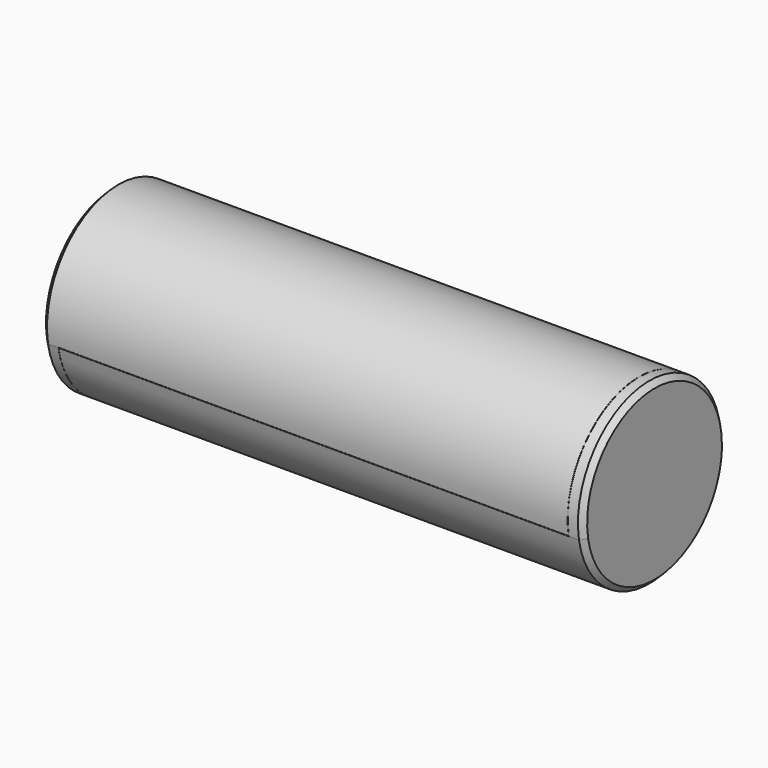
from build123d import *

# Parameters (mm, degrees)
F1_DEPTH  = 99.97
F2_DEPTH  = 3
F3_START  = 0.03
F3_DEPTH  = 99.97
F4_START  = 100
F4_DEPTH  = 3
F5_SIZE   = 1
F5_2_SIZE = 1
F6_R      = 0.5
F6_2_R    = 0.5


with BuildPart() as f1:
    # F0 (on Right) → F1 (new body)
    with BuildSketch(Plane.YZ):
        with BuildLine():
            ThreePointArc((17.2495652119, -2.95), (17.4372789048, -1.4803055076), (17.5, 0))
            ThreePointArc((17.5, 0), (-1.4803055076, 17.4372789048), (-17.2495652119, -2.95))
            Line((-17.2495652119, -2.95), (-14.5799998846, -2.95))
            Line((-14.5799998846, -2.95), (-14.5799998846, -1.6099997692))
            Line((-14.5799998846, -1.6099997692), (-16.0799998846, -1.6099997692))
            Line((-16.0799998846, -1.6099997692), (-16.0799998846, 0.05))
            Line((-16.0799998846, 0.05), (-12.9999038458, 0.05))
            ThreePointArc((-12.9999038458, 0.05), (0, 13), (12.9999038458, 0.05))
            Line((12.9999038458, 0.05), (16.0799998846, 0.05))
            Line((16.0799998846, 0.05), (16.0799998846, -1.6099997692))
            Line((16.0799998846, -1.6099997692), (14.5799998846, -1.6099997692))
            Line((14.5799998846, -1.6099997692), (14.5799998846, -2.95))
            Line((14.5799998846, -2.95), (17.2495652119, -2.95))
        make_face()
    extrude(amount=F1_DEPTH)

    # F0 (on Right) → F2 (join)
    with BuildSketch(Plane.YZ):
        with BuildLine():
            ThreePointArc((17.2495652119, -2.95), (17.4372789048, -1.4803055076), (17.5, 0))
            ThreePointArc((17.5, 0), (-1.4803055076, 17.4372789048), (-17.2495652119, -2.95))
            Line((-17.2495652119, -2.95), (-14.5799998846, -2.95))
            Line((-14.5799998846, -2.95), (-14.5799998846, -1.6099997692))
            Line((-14.5799998846, -1.6099997692), (-16.0799998846, -1.6099997692))
            Line((-16.0799998846, -1.6099997692), (-16.0799998846, 0.05))
            Line((-16.0799998846, 0.05), (-12.9999038458, 0.05))
            ThreePointArc((-12.9999038458, 0.05), (0, 13), (12.9999038458, 0.05))
            Line((12.9999038458, 0.05), (16.0799998846, 0.05))
            Line((16.0799998846, 0.05), (16.0799998846, -1.6099997692))
            Line((16.0799998846, -1.6099997692), (14.5799998846, -1.6099997692))
            Line((14.5799998846, -1.6099997692), (14.5799998846, -2.95))
            Line((14.5799998846, -2.95), (17.2495652119, -2.95))
        make_face()
        with BuildLine():
            Line((-14.5799998846, -2.95), (-17.2495652119, -2.95))
            ThreePointArc((-17.2495652119, -2.95), (-17.2452705517, -2.9750031261), (-17.2409396496, -3))
            Line((-17.2409396496, -3), (-14.5299998846, -3))
            Line((-14.5299998846, -3), (-14.5299998846, -1.5599997692))
            Line((-14.5299998846, -1.5599997692), (-16.0299998846, -1.5599997692))
            Line((-16.0299998846, -1.5599997692), (-16.0299998846, 0))
            Line((-16.0299998846, 0), (-13, 0))
            ThreePointArc((-13, 0), (-12.9999759614, 0.0250000462), (-12.9999038458, 0.05))
            Line((-12.9999038458, 0.05), (-16.0799998846, 0.05))
            Line((-16.0799998846, 0.05), (-16.0799998846, -1.6099997692))
            Line((-16.0799998846, -1.6099997692), (-14.5799998846, -1.6099997692))
            Line((-14.5799998846, -1.6099997692), (-14.5799998846, -2.95))
        make_face()
        with BuildLine():
            ThreePointArc((17.2409396496, -3), (17.2452705517, -2.9750031261), (17.2495652119, -2.95))
            Line((17.2495652119, -2.95), (14.5799998846, -2.95))
            Line((14.5799998846, -2.95), (14.5799998846, -1.6099997692))
            Line((14.5799998846, -1.6099997692), (16.0799998846, -1.6099997692))
            Line((16.0799998846, -1.6099997692), (16.0799998846, 0.05))
            Line((16.0799998846, 0.05), (12.9999038458, 0.05))
            ThreePointArc((12.9999038458, 0.05), (12.9999759614, 0.0250000462), (13, 0))
            Line((13, 0), (16.0299998846, 0))
            Line((16.0299998846, 0), (16.0299998846, -1.5599997692))
            Line((16.0299998846, -1.5599997692), (14.5299998846, -1.5599997692))
            Line((14.5299998846, -1.5599997692), (14.5299998846, -3))
            Line((14.5299998846, -3), (17.2409396496, -3))
        make_face()
        with BuildLine():
            Line((-14.5299998846, -3), (-17.2409396496, -3))
            ThreePointArc((-17.2409396496, -3), (0, -17.5), (17.2409396496, -3))
            Line((17.2409396496, -3), (14.5299998846, -3))
            Line((14.5299998846, -3), (14.5299998846, -1.5599997692))
            Line((14.5299998846, -1.5599997692), (16.0299998846, -1.5599997692))
            Line((16.0299998846, -1.5599997692), (16.0299998846, 0))
            Line((16.0299998846, 0), (13, 0))
            Line((13, 0), (13, -3))
            Line((13, -3), (-13, -3))
            Line((-13, -3), (-13, 0))
            Line((-13, 0), (-16.0299998846, 0))
            Line((-16.0299998846, 0), (-16.0299998846, -1.5599997692))
            Line((-16.0299998846, -1.5599997692), (-14.5299998846, -1.5599997692))
            Line((-14.5299998846, -1.5599997692), (-14.5299998846, -3))
        make_face()
        with BuildLine():
            ThreePointArc((12.9999038458, 0.05), (0, 13), (-12.9999038458, 0.05))
            Line((-12.9999038458, 0.05), (12.9999038458, 0.05))
        make_face()
        with BuildLine():
            Line((12.9999038458, 0.05), (-12.9999038458, 0.05))
            ThreePointArc((-12.9999038458, 0.05), (-12.9999759614, 0.0250000462), (-13, 0))
            Line((-13, 0), (-13, -3))
            Line((-13, -3), (13, -3))
            Line((13, -3), (13, 0))
            ThreePointArc((13, 0), (12.9999759614, 0.0250000462), (12.9999038458, 0.05))
        make_face()
    extrude(amount=-F2_DEPTH)

    # F5
    f5_edges = [f1.edges().sort_by_distance(p)[0] for p in [
        (-3, 17.24094, 3),
    ]]
    chamfer(f5_edges, length=F5_SIZE)

    # F6#2
    f6_2_edges = [f1.edges().sort_by_distance(p)[0] for p in [
        (49.985, 16.08, 0.05),
        (49.985, 16.08, -1.61),
        (49.985, 14.58, -1.61),
        (49.985, 14.58, -2.95),
        (49.985, -14.58, -1.61),
        (49.985, -14.58, -2.95),
        (49.985, -16.08, -1.61),
        (49.985, -16.08, 0.05),
        (49.985, -12.999904, 0.05),
        (49.985, 12.999904, 0.05),
    ]]
    fillet(f6_2_edges, radius=F6_2_R)


with BuildPart() as f3:
    # F0 (on Right) → F3 (new body)
    with BuildSketch(Plane.YZ.offset(F3_START)):
        with BuildLine():
            Line((-14.5299998846, -3), (-17.2409396496, -3))
            ThreePointArc((-17.2409396496, -3), (0, -17.5), (17.2409396496, -3))
            Line((17.2409396496, -3), (14.5299998846, -3))
            Line((14.5299998846, -3), (14.5299998846, -1.5599997692))
            Line((14.5299998846, -1.5599997692), (16.0299998846, -1.5599997692))
            Line((16.0299998846, -1.5599997692), (16.0299998846, 0))
            Line((16.0299998846, 0), (13, 0))
            Line((13, 0), (13, -3))
            Line((13, -3), (-13, -3))
            Line((-13, -3), (-13, 0))
            Line((-13, 0), (-16.0299998846, 0))
            Line((-16.0299998846, 0), (-16.0299998846, -1.5599997692))
            Line((-16.0299998846, -1.5599997692), (-14.5299998846, -1.5599997692))
            Line((-14.5299998846, -1.5599997692), (-14.5299998846, -3))
        make_face()
    extrude(amount=F3_DEPTH)

    # F0 (on Right) → F4 (join)
    with BuildSketch(Plane.YZ.offset(F4_START)):
        with BuildLine():
            ThreePointArc((17.2495652119, -2.95), (17.4372789048, -1.4803055076), (17.5, 0))
            ThreePointArc((17.5, 0), (-1.4803055076, 17.4372789048), (-17.2495652119, -2.95))
            Line((-17.2495652119, -2.95), (-14.5799998846, -2.95))
            Line((-14.5799998846, -2.95), (-14.5799998846, -1.6099997692))
            Line((-14.5799998846, -1.6099997692), (-16.0799998846, -1.6099997692))
            Line((-16.0799998846, -1.6099997692), (-16.0799998846, 0.05))
            Line((-16.0799998846, 0.05), (-12.9999038458, 0.05))
            ThreePointArc((-12.9999038458, 0.05), (0, 13), (12.9999038458, 0.05))
            Line((12.9999038458, 0.05), (16.0799998846, 0.05))
            Line((16.0799998846, 0.05), (16.0799998846, -1.6099997692))
            Line((16.0799998846, -1.6099997692), (14.5799998846, -1.6099997692))
            Line((14.5799998846, -1.6099997692), (14.5799998846, -2.95))
            Line((14.5799998846, -2.95), (17.2495652119, -2.95))
        make_face()
        with BuildLine():
            Line((-14.5799998846, -2.95), (-17.2495652119, -2.95))
            ThreePointArc((-17.2495652119, -2.95), (-17.2452705517, -2.9750031261), (-17.2409396496, -3))
            Line((-17.2409396496, -3), (-14.5299998846, -3))
            Line((-14.5299998846, -3), (-14.5299998846, -1.5599997692))
            Line((-14.5299998846, -1.5599997692), (-16.0299998846, -1.5599997692))
            Line((-16.0299998846, -1.5599997692), (-16.0299998846, 0))
            Line((-16.0299998846, 0), (-13, 0))
            ThreePointArc((-13, 0), (-12.9999759614, 0.0250000462), (-12.9999038458, 0.05))
            Line((-12.9999038458, 0.05), (-16.0799998846, 0.05))
            Line((-16.0799998846, 0.05), (-16.0799998846, -1.6099997692))
            Line((-16.0799998846, -1.6099997692), (-14.5799998846, -1.6099997692))
            Line((-14.5799998846, -1.6099997692), (-14.5799998846, -2.95))
        make_face()
        with BuildLine():
            ThreePointArc((17.2409396496, -3), (17.2452705517, -2.9750031261), (17.2495652119, -2.95))
            Line((17.2495652119, -2.95), (14.5799998846, -2.95))
            Line((14.5799998846, -2.95), (14.5799998846, -1.6099997692))
            Line((14.5799998846, -1.6099997692), (16.0799998846, -1.6099997692))
            Line((16.0799998846, -1.6099997692), (16.0799998846, 0.05))
            Line((16.0799998846, 0.05), (12.9999038458, 0.05))
            ThreePointArc((12.9999038458, 0.05), (12.9999759614, 0.0250000462), (13, 0))
            Line((13, 0), (16.0299998846, 0))
            Line((16.0299998846, 0), (16.0299998846, -1.5599997692))
            Line((16.0299998846, -1.5599997692), (14.5299998846, -1.5599997692))
            Line((14.5299998846, -1.5599997692), (14.5299998846, -3))
            Line((14.5299998846, -3), (17.2409396496, -3))
        make_face()
        with BuildLine():
            Line((-14.5299998846, -3), (-17.2409396496, -3))
            ThreePointArc((-17.2409396496, -3), (0, -17.5), (17.2409396496, -3))
            Line((17.2409396496, -3), (14.5299998846, -3))
            Line((14.5299998846, -3), (14.5299998846, -1.5599997692))
            Line((14.5299998846, -1.5599997692), (16.0299998846, -1.5599997692))
            Line((16.0299998846, -1.5599997692), (16.0299998846, 0))
            Line((16.0299998846, 0), (13, 0))
            Line((13, 0), (13, -3))
            Line((13, -3), (-13, -3))
            Line((-13, -3), (-13, 0))
            Line((-13, 0), (-16.0299998846, 0))
            Line((-16.0299998846, 0), (-16.0299998846, -1.5599997692))
            Line((-16.0299998846, -1.5599997692), (-14.5299998846, -1.5599997692))
            Line((-14.5299998846, -1.5599997692), (-14.5299998846, -3))
        make_face()
        with BuildLine():
            ThreePointArc((12.9999038458, 0.05), (0, 13), (-12.9999038458, 0.05))
            Line((-12.9999038458, 0.05), (12.9999038458, 0.05))
        make_face()
        with BuildLine():
            Line((12.9999038458, 0.05), (-12.9999038458, 0.05))
            ThreePointArc((-12.9999038458, 0.05), (-12.9999759614, 0.0250000462), (-13, 0))
            Line((-13, 0), (-13, -3))
            Line((-13, -3), (13, -3))
            Line((13, -3), (13, 0))
            ThreePointArc((13, 0), (12.9999759614, 0.0250000462), (12.9999038458, 0.05))
        make_face()
    extrude(amount=F4_DEPTH)

    # F5#2
    f5_2_edges = [f3.edges().sort_by_distance(p)[0] for p in [
        (103, 17.24094, 3),
    ]]
    chamfer(f5_2_edges, length=F5_2_SIZE)

    # F6
    f6_edges = [f3.edges().sort_by_distance(p)[0] for p in [
        (50.015, 13, 0),
        (50.015, 16.03, 0),
        (50.015, 16.03, -1.56),
        (50.015, 14.53, -1.56),
        (50.015, 13, -3),
        (50.015, 14.53, -3),
        (50.015, -13, 0),
        (50.015, -13, -3),
        (50.015, -14.53, -1.56),
        (50.015, -14.53, -3),
        (50.015, -16.03, -1.56),
        (50.015, -16.03, 0),
    ]]
    fillet(f6_edges, radius=F6_R)


solid = Compound([f1.part, f3.part])
